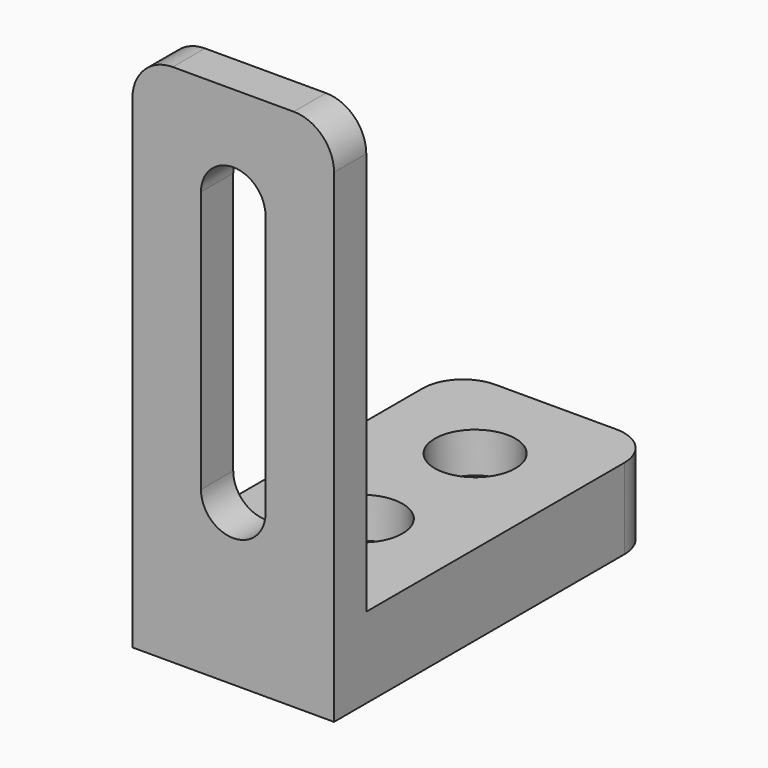
from build123d import *

# Parameters (mm, degrees)
F0_W      = 50
F0_H      = 100
F1_DEPTH  = 20
F2_R      = 10
F3_DEPTH  = 10
F4_R      = 5
F5_DEPTH  = 10
F6_R      = 5
F7_DEPTH  = 10
F8_W      = 50
F8_H      = 10
F9_DEPTH  = 110
F10_R     = 10
F12_DEPTH = 10


with BuildPart() as f1:
    # F0 (on Top) → F1 (new body)
    with BuildSketch(Plane.XY):
        with Locations((25, 50)):
            Rectangle(F0_W, F0_H)
    extrude(amount=F1_DEPTH)

    # F2 (on face) → F3 (cut)
    with BuildSketch(Plane.XY.offset(20)):
        with Locations((25, 75)):
            Circle(F2_R)
        with Locations((25, 40)):
            Circle(F2_R)
    extrude(amount=-F3_DEPTH, mode=Mode.SUBTRACT)

    # F4 (on face) → F5 (cut)
    with BuildSketch(Plane.XY.offset(10)):
        with Locations((25, 75)):
            Circle(F4_R)
    extrude(amount=-F5_DEPTH, mode=Mode.SUBTRACT)

    # F6 (on face) → F7 (cut)
    with BuildSketch(Plane.XY.offset(10)):
        with Locations((25, 40)):
            Circle(F6_R)
    extrude(amount=-F7_DEPTH, mode=Mode.SUBTRACT)

    # F8 (on face) → F9 (join)
    with BuildSketch(Plane.XY.offset(20)):
        with Locations((25, 5)):
            Rectangle(F8_W, F8_H)
    extrude(amount=F9_DEPTH)

    # F10
    f10_edges = [f1.edges().sort_by_distance(p)[0] for p in [
        (0, 100, 10),
        (50, 100, 10),
        (0, 5, 130),
        (50, 5, 130),
    ]]
    fillet(f10_edges, radius=F10_R)

    # F11 (on face) → F12 (cut)
    with BuildSketch(Plane(origin=(0, 10, 0), x_dir=(-1, 0, 0), z_dir=(0, 1, 0))):
        with BuildLine():
            Line((-33, 105), (-33, 40))
            ThreePointArc((-33, 40), (-25, 32), (-17, 40))
            Line((-17, 40), (-17, 105))
            ThreePointArc((-17, 105), (-25, 113), (-33, 105))
        make_face()
    extrude(amount=-F12_DEPTH, mode=Mode.SUBTRACT)


solid = f1.part
